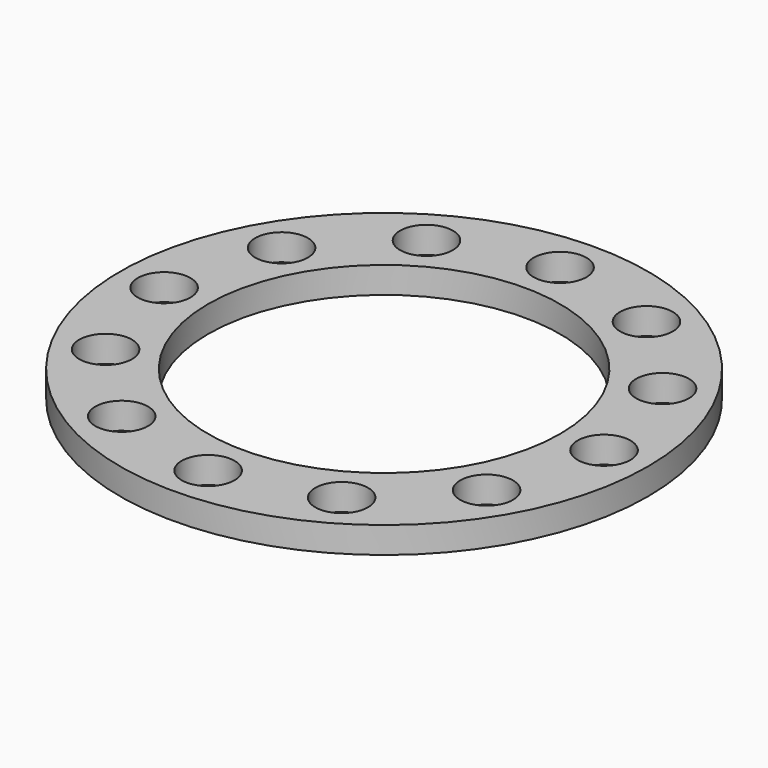
from build123d import *

# Parameters (mm, degrees)
F0_R     = 30
F0_R_2   = 3
F0_R_3   = 20
F1_DEPTH = 3


with BuildPart() as f1:
    # F0 (on Top) → F1 (new body)
    with BuildSketch(Plane.XY):
        Circle(F0_R)
        with Locations((-12.5, -21.650635)):
            Circle(F0_R_2, mode=Mode.SUBTRACT)
        with Locations((-21.650635, -12.5)):
            Circle(F0_R_2, mode=Mode.SUBTRACT)
        with Locations((0, -25)):
            Circle(F0_R_2, mode=Mode.SUBTRACT)
        with Locations((12.5, -21.650635)):
            Circle(F0_R_2, mode=Mode.SUBTRACT)
        with Locations((21.650635, -12.5)):
            Circle(F0_R_2, mode=Mode.SUBTRACT)
        with Locations((-25, 0)):
            Circle(F0_R_2, mode=Mode.SUBTRACT)
        with Locations((-21.650635, 12.5)):
            Circle(F0_R_2, mode=Mode.SUBTRACT)
        with Locations((-12.5, 21.650635)):
            Circle(F0_R_2, mode=Mode.SUBTRACT)
        Circle(F0_R_3, mode=Mode.SUBTRACT)
        with Locations((25, 0)):
            Circle(F0_R_2, mode=Mode.SUBTRACT)
        with Locations((21.650635, 12.5)):
            Circle(F0_R_2, mode=Mode.SUBTRACT)
        with Locations((12.5, 21.650635)):
            Circle(F0_R_2, mode=Mode.SUBTRACT)
        with Locations((0, 25)):
            Circle(F0_R_2, mode=Mode.SUBTRACT)
    extrude(amount=F1_DEPTH)


solid = f1.part
